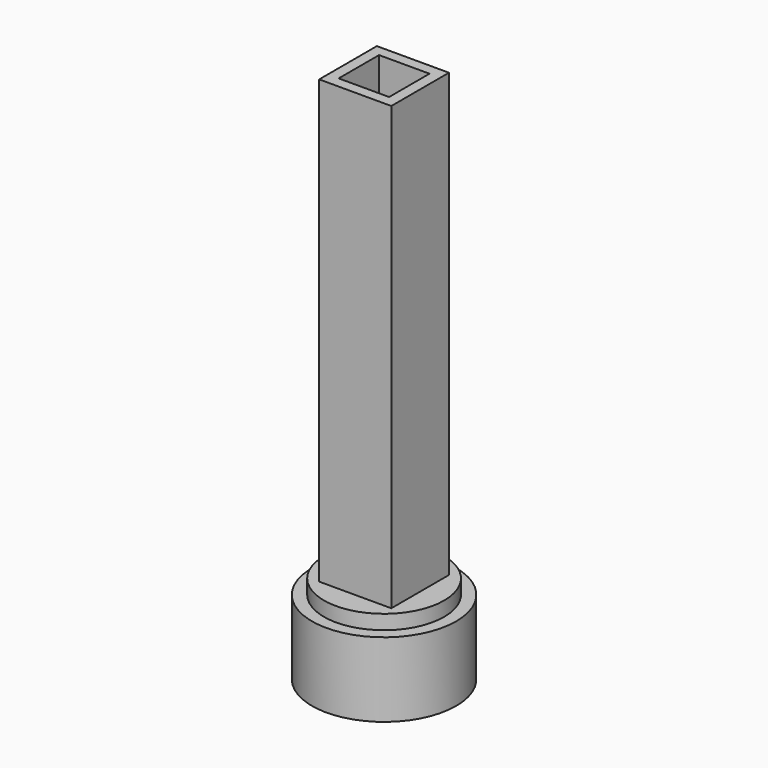
from build123d import *

# Parameters (mm, degrees)
F0_W     = 15
F0_H     = 15
F0_W_2   = 10.5
F0_H_2   = 10.5
F1_DEPTH = 95
F2_R     = 15
F3_DEPTH = 15.5
F4_R     = 12.5
F4_W     = 15
F4_H     = 15
F5_DEPTH = 3


with BuildPart() as f1:
    # F0 (on Top) → F1 (new body)
    with BuildSketch(Plane.XY):
        Rectangle(F0_W, F0_H)
        Rectangle(F0_W_2, F0_H_2, mode=Mode.SUBTRACT)
    extrude(amount=F1_DEPTH)

    # F2 (on face) → F3 (join)
    with BuildSketch(Plane(origin=(0, 0, 0), x_dir=(1, 0, 0), z_dir=(0, 0, -1))):
        Circle(F2_R)
        Polygon((0, -10.10363), (-8.75, -5.051815), (-8.75, 5.051815), (0, 10.10363), (8.75, 5.051815), (8.75, -5.051815), align=None, mode=Mode.SUBTRACT)
    extrude(amount=F3_DEPTH)

    # F4 (on face) → F5 (join)
    with BuildSketch(Plane.XY):
        Circle(F4_R)
        Rectangle(F4_W, F4_H, mode=Mode.SUBTRACT)
    extrude(amount=F5_DEPTH)


solid = f1.part
